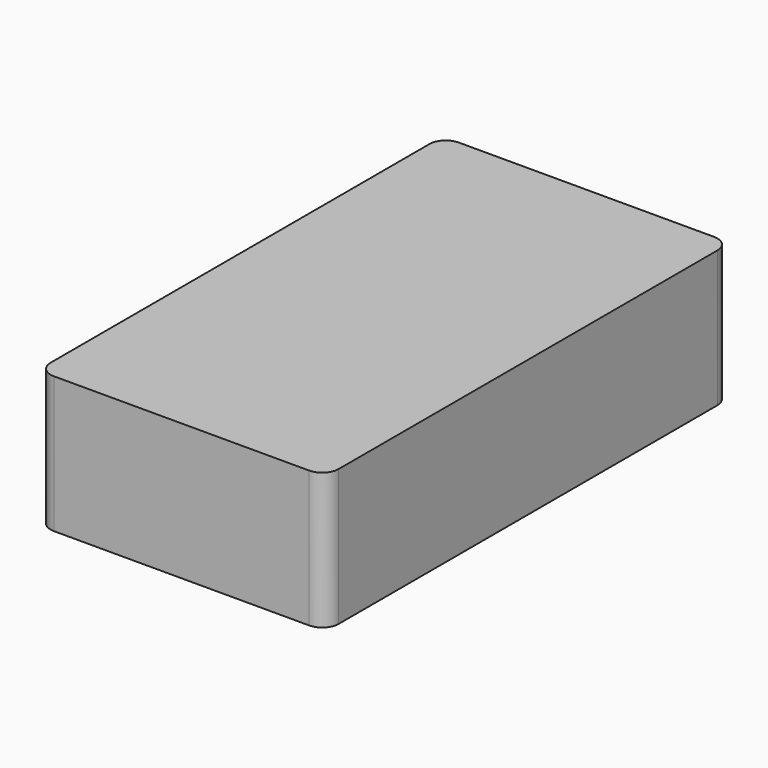
from build123d import *

# Parameters (mm, degrees)
F1_DEPTH = 25


with BuildPart() as f1:
    # F0 (on Top) → F1 (new body)
    with BuildSketch(Plane.XY):
        with BuildLine():
            Line((-34.645759, -51.858142), (-11.245759, -51.858142))
            Line((-11.245759, -51.858142), (12.154241, -51.858142))
            ThreePointArc((12.154241, -51.858142), (14.275562, -50.979462), (15.154241, -48.858142))
            Line((15.154241, -48.858142), (15.154241, 37.941858))
            ThreePointArc((15.154241, 37.941858), (14.275562, 40.063178), (12.154241, 40.941858))
            Line((12.154241, 40.941858), (-34.645759, 40.941858))
            ThreePointArc((-34.645759, 40.941858), (-36.767079, 40.063178), (-37.645759, 37.941858))
            Line((-37.645759, 37.941858), (-37.645759, -48.858142))
            ThreePointArc((-37.645759, -48.858142), (-36.767079, -50.979462), (-34.645759, -51.858142))
        make_face()
    extrude(amount=F1_DEPTH)


solid = f1.part
